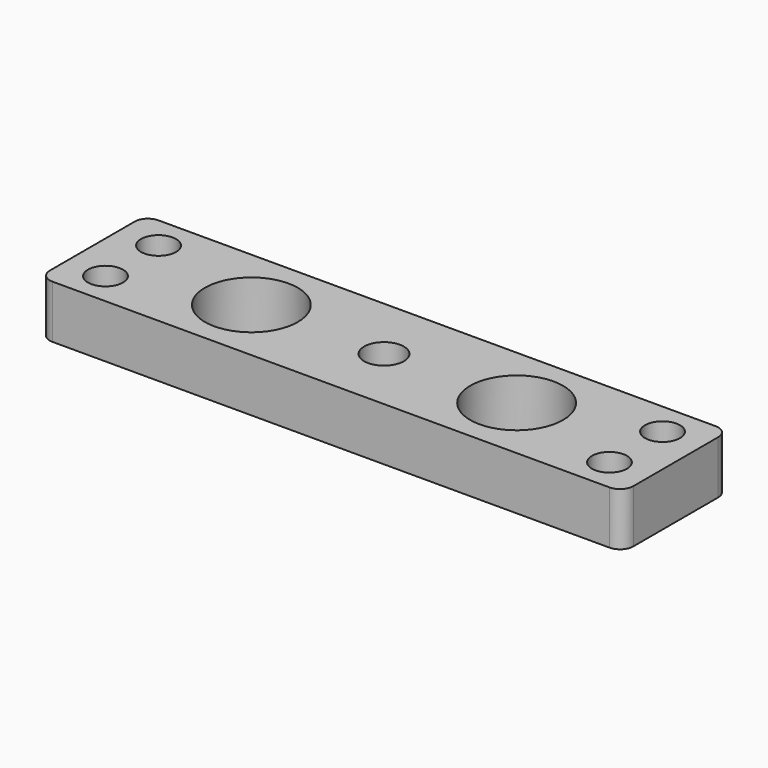
from build123d import *

# Parameters (mm, degrees)
F0_W     = 220
F0_H     = 50
F0_R     = 17.5
F0_R_2   = 7.5
F1_DEPTH = 20
F2_D     = 13.2
F3_R     = 5


with BuildPart() as f1:
    # F0 (on Top) → F1 (new body)
    with BuildSketch(Plane.XY):
        Rectangle(F0_W, F0_H)
        with Locations((-50, 0)):
            Circle(F0_R, mode=Mode.SUBTRACT)
        Circle(F0_R_2, mode=Mode.SUBTRACT)
        with Locations((50, 0)):
            Circle(F0_R, mode=Mode.SUBTRACT)
    extrude(amount=F1_DEPTH)

    # F2 (through all)
    with Locations(Plane(origin=(0, 0, 0), x_dir=(1, 0, 0), z_dir=(0, 0, -1))):
        with Locations((-95, -12.5), (-95, 12.5), (95, -12.5), (95, 12.5)):
            Hole(F2_D / 2)

    # F3
    f3_edges = [f1.edges().sort_by_distance(p)[0] for p in [
        (-110, -25, 10),
        (110, -25, 10),
        (110, 25, 10),
        (-110, 25, 10),
    ]]
    fillet(f3_edges, radius=F3_R)


solid = f1.part
